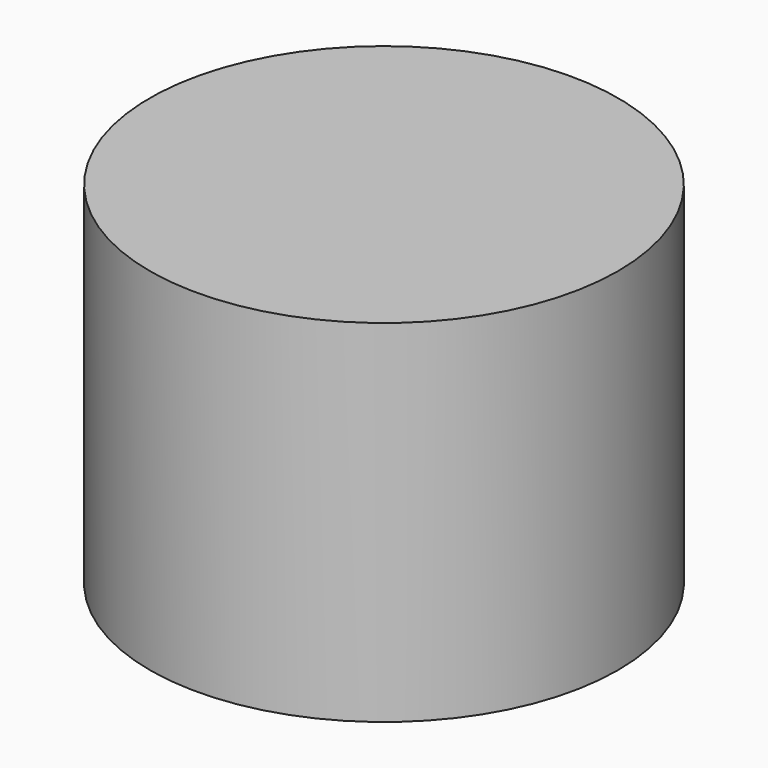
from build123d import *

# Parameters (mm, degrees)
F0_R     = 50.8
F0_R_2   = 47.625
F1_DEPTH = 76.2
F2_DEPTH = 69.85


with BuildPart() as f1:
    # F0 (on Top) → F1 (new body)
    with BuildSketch(Plane.XY):
        with Locations((-47.0104850829, 38.7145169079)):
            Circle(F0_R)
        with Locations((-47.0104850829, 38.7145169079)):
            Circle(F0_R_2, mode=Mode.SUBTRACT)
        with Locations((-47.0104850829, 38.7145169079)):
            Circle(F0_R_2)
    extrude(amount=F1_DEPTH)

    # F0 (on Top) → F2 (cut)
    with BuildSketch(Plane.XY):
        with Locations((-47.0104850829, 38.7145169079)):
            Circle(F0_R_2)
    extrude(amount=F2_DEPTH, mode=Mode.SUBTRACT)


solid = f1.part
